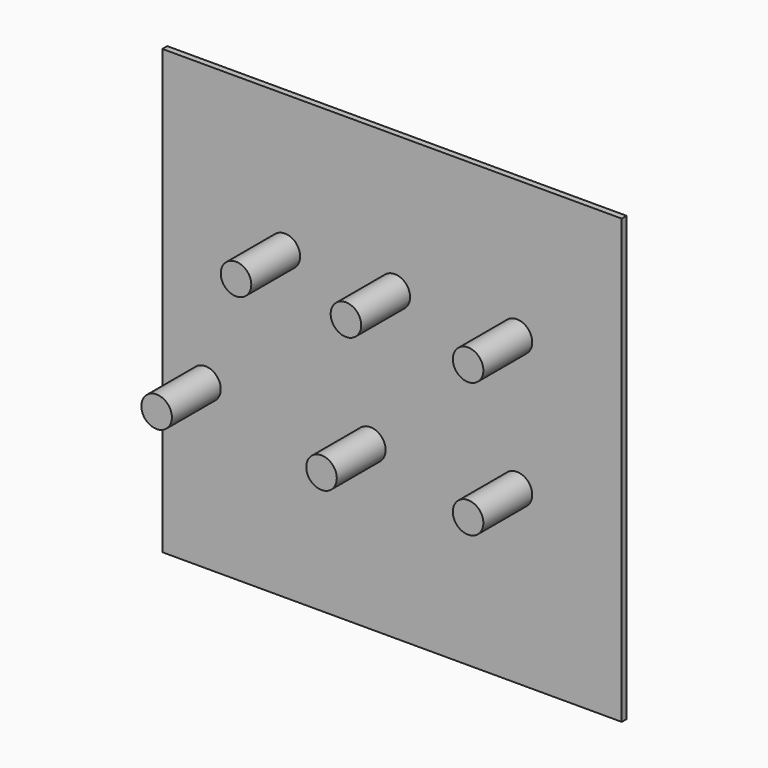
from build123d import *

# Parameters (mm, degrees)
F0_W     = 191.065363
F0_H     = 184.277974
F1_DEPTH = 2.54
F2_R     = 6.35
F3_DEPTH = 25.4
F4_DEPTH = 25.4
F5_DEPTH = 25.4
F6_DEPTH = 25.4
F7_DEPTH = 25.4


with BuildPart() as f1:
    # F0 (on Front) → F1 (new body)
    with BuildSketch(Plane.XZ):
        with Locations((-1.150605, -5.934697)):
            Rectangle(F0_W, F0_H)
    extrude(amount=F1_DEPTH)

    # F2 (on face) → F3 (join)
    with BuildSketch(Plane.XZ.offset(2.54)):
        with Locations((-45.72, 28.85074)):
            Circle(F2_R)
    extrude(amount=F3_DEPTH)

    # F2 (on face) → F4 (join)
    with BuildSketch(Plane.XZ.offset(2.54)):
        with Locations((0, 28.85074)):
            Circle(F2_R)
        with Locations((50.8, 28.85074)):
            Circle(F2_R)
    extrude(amount=F4_DEPTH)

    # F2 (on face) → F5 (join)
    with BuildSketch(Plane.XZ.offset(2.54)):
        with Locations((-78.74, -30.48)):
            Circle(F2_R)
    extrude(amount=F5_DEPTH)

    # F2 (on face) → F6 (join)
    with BuildSketch(Plane.XZ.offset(2.54)):
        with Locations((50.8, -27.02926)):
            Circle(F2_R)
    extrude(amount=F6_DEPTH)

    # F2 (on face) → F7 (join)
    with BuildSketch(Plane.XZ.offset(2.54)):
        with Locations((-10.16, -30.48)):
            Circle(F2_R)
    extrude(amount=F7_DEPTH)


solid = f1.part
